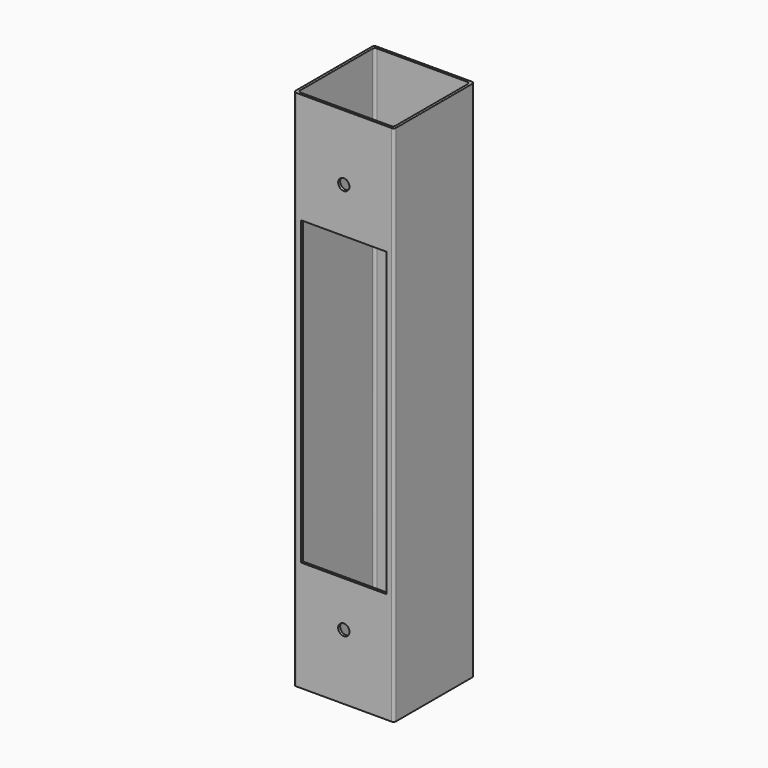
from build123d import *

# Parameters (mm, degrees)
F0_W     = 127
F0_H     = 127
F0_W_2   = 120.65
F0_H_2   = 120.65
F1_DEPTH = 660.4
F2_R     = 3.175
F3_R     = 3.175
F4_W     = 107.95
F4_H     = 381
F5_DEPTH = 25.4
F6_R     = 7.14375
F7_DEPTH = 25.4
F8_R     = 9.525
F9_DEPTH = 25.4


with BuildPart() as f1:
    # F0 (on Top) → F1 (new body)
    with BuildSketch(Plane.XY):
        Rectangle(F0_W, F0_H)
        Rectangle(F0_W_2, F0_H_2, mode=Mode.SUBTRACT)
    extrude(amount=F1_DEPTH)

    # F2
    f2_edges = [f1.edges().sort_by_distance(p)[0] for p in [
        (60.325, 60.325, 330.2),
        (63.5, -63.5, 330.2),
        (-63.5, -63.5, 330.2),
        (-63.5, 63.5, 330.2),
        (60.325, -60.325, 330.2),
        (63.5, 63.5, 330.2),
        (-60.325, -60.325, 330.2),
    ]]
    fillet(f2_edges, radius=F2_R)

    # F3
    f3_edges = [f1.edges().sort_by_distance(p)[0] for p in [
        (-60.325, 60.325, 330.2),
    ]]
    fillet(f3_edges, radius=F3_R)

    # F4 (on face) → F5 (cut)
    with BuildSketch(Plane.XZ.offset(63.5)):
        with Locations((0, 330.2)):
            Rectangle(F4_W, F4_H)
    extrude(amount=-F5_DEPTH, mode=Mode.SUBTRACT)

    # F6 (on face) → F7 (cut)
    with BuildSketch(Plane.XZ.offset(63.5)):
        with Locations((0, 82.55)):
            Circle(F6_R)
        with Locations((0, 577.85)):
            Circle(F6_R)
    extrude(amount=-F7_DEPTH, mode=Mode.SUBTRACT)

    # F8 (on face) → F9 (cut)
    with BuildSketch(Plane(origin=(0, 63.5, 0), x_dir=(-1, 0, 0), z_dir=(0, 1, 0))):
        with Locations((0, 177.8)):
            Circle(F8_R)
        with Locations((0, 330.2)):
            Circle(F8_R)
        with Locations((0, 482.6)):
            Circle(F8_R)
    extrude(amount=-F9_DEPTH, mode=Mode.SUBTRACT)


solid = f1.part
